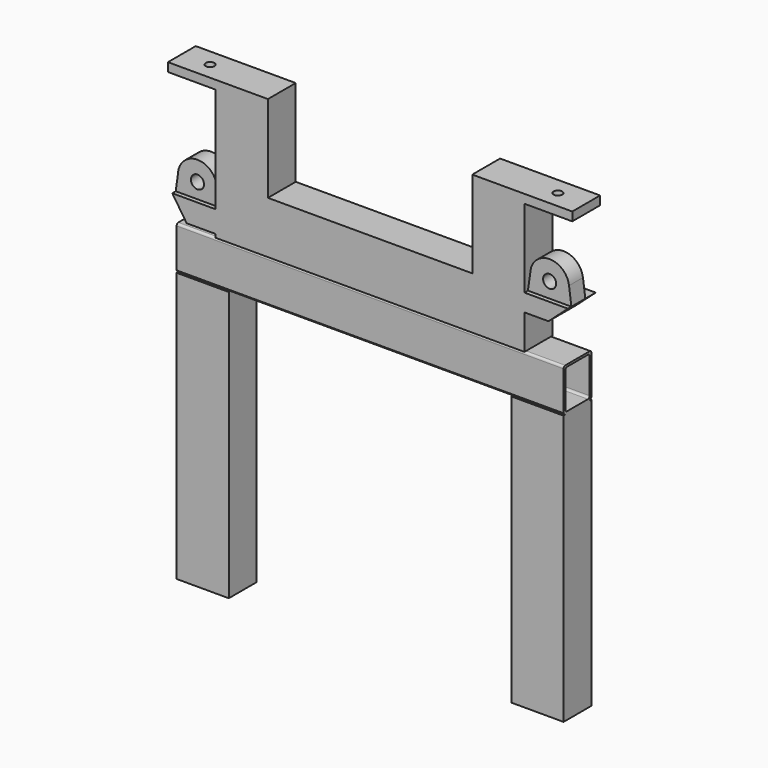
from build123d import *

# Parameters (mm, degrees)
F0_W      = 470
F0_H      = 400
F0_W_2    = 60
F0_H_2    = 20
F1_DEPTH  = 80
F2_W      = 989.0920937061
F2_H      = 720
F3_DEPTH  = 80
F4_R      = 10
F5_DEPTH  = 25
F7_START  = -10
F6_R      = 15
F7_DEPTH  = 40
F10_DEPTH = 80
F12_DEPTH = 890
F13_R     = 5
F15_DEPTH = 890
F17_DEPTH = 890


with BuildPart() as f1:
    # F0 (on Front) → F1 (new body)
    with BuildSketch(Plane.XZ):
        Polygon((-235, 0), (-355, 0), (-465, 0), (-465, -20), (-355, -20), (-355, -262.1796250343), (-455, -262.1796250343), (-421.8337520964, -312.1796250343), (-355, -312.1796250343), (-355, -1020), (-355, -1040), (-235, -1040), (-235, -840), (235, -840), (235, -1040), (355, -1040), (355, -1020), (355, -240), (410.27864045, -240), (455, -200), (355, -200), (355, -20), (465, -20), (465, 0), (355, 0), (235, 0), (235, -200), (-235, -200), align=None)
        with Locations((0, -520)):
            Rectangle(F0_W, F0_H, mode=Mode.SUBTRACT)
        with Locations((-385, -1030)):
            Rectangle(F0_W_2, F0_H_2)
        with Locations((385, -1030)):
            Rectangle(F0_W_2, F0_H_2)
    extrude(amount=F1_DEPTH)

    # F2 (on face) → F3 (cut)
    with BuildSketch(Plane.XZ.offset(80)):
        with Locations((42.8487956524, -680)):
            Rectangle(F2_W, F2_H)
    extrude(amount=-F3_DEPTH, mode=Mode.SUBTRACT)

    # F4 (on face) → F5 (cut)
    with BuildSketch(Plane.XY):
        with Locations((-400, -40)):
            Circle(F4_R)
        with Locations((400, -40)):
            Circle(F4_R)
    extrude(amount=-F5_DEPTH, mode=Mode.SUBTRACT)

    # F6 (on face) → F7 (join)
    with BuildSketch(Plane.XZ.offset(80).offset(F7_START)):
        with BuildLine():
            Line((-355, -262.1796250343), (-360.3855265494, -221.3018058192))
            ThreePointArc((-360.3855265494, -221.3018058192), (-407.0948116692, -182.2284096551), (-449.9677594515, -225.4765073318))
            Line((-449.9677594515, -225.4765073318), (-455, -262.1796250343))
            Line((-455, -262.1796250343), (-355, -262.1796250343))
        make_face()
        with Locations((-405, -227.1796250343)):
            Circle(F6_R, mode=Mode.SUBTRACT)
        with BuildLine():
            Line((355, -200), (455, -200))
            Line((455, -200), (449.6144734506, -159.1221807849))
            ThreePointArc((449.6144734506, -159.1221807849), (408.6794577223, -120.1506790367), (361.9400684353, -151.9293346135))
            Line((361.9400684353, -151.9293346135), (355, -200))
        make_face()
        with Locations((405, -165)):
            Circle(F6_R, mode=Mode.SUBTRACT)
    extrude(amount=-F7_DEPTH)

    # F9 (on face) → F10 (join)
    with BuildSketch(Plane.XZ.offset(80)):
        Polygon((445, -320), (-445, -320), (-445, -420), (-445, -1040), (-325, -1040), (-325, -420), (325, -420), (325, -1040), (445, -1040), (445, -420), align=None)
    extrude(amount=-F10_DEPTH)

    # F11 (on face) → F12 (cut)
    with BuildSketch(Plane(origin=(-445, 0, 0), x_dir=(0, -1, 0), z_dir=(-1, 0, 0))):
        with BuildLine():
            Line((70, -325), (10, -325))
            ThreePointArc((10, -325), (6.4644660941, -326.4644660941), (5, -330))
            Line((5, -330), (5, -410))
            ThreePointArc((5, -410), (6.4644660941, -413.5355339059), (10, -415))
            Line((10, -415), (70, -415))
            ThreePointArc((70, -415), (73.5355339059, -413.5355339059), (75, -410))
            Line((75, -410), (75, -330))
            ThreePointArc((75, -330), (73.5355339059, -326.4644660941), (70, -325))
        make_face()
    extrude(amount=-F12_DEPTH, mode=Mode.SUBTRACT)

    # F13
    f13_edges = [f1.edges().sort_by_distance(p)[0] for p in [
        (-400, -80, -320),
        (-400, 0, -320),
        (0, -80, -420),
        (0, 0, -420),
        (400, -80, -320),
        (400, 0, -320),
    ]]
    fillet(f13_edges, radius=F13_R)

    # F14 (on face) → F15 (cut)
    with BuildSketch(Plane(origin=(-445, 0, 0), x_dir=(0, -1, 0), z_dir=(-1, 0, 0))):
        Polygon((75, -420), (80, -420), (80, -415), align=None)
        Polygon((0, -415), (0, -420), (5, -420), align=None)
    extrude(amount=-F15_DEPTH, mode=Mode.SUBTRACT)

    # F16 (on face) → F17 (cut)
    with BuildSketch(Plane(origin=(-445, 0, 0), x_dir=(0, -1, 0), z_dir=(-1, 0, 0))):
        with BuildLine():
            ThreePointArc((75, -320), (78.5355339059, -321.4644660941), (80, -325))
            Line((80, -325), (80, -320))
            Line((80, -320), (75, -320))
        make_face()
        with BuildLine():
            ThreePointArc((0, -325), (1.4644660941, -321.4644660941), (5, -320))
            Line((5, -320), (0, -320))
            Line((0, -320), (0, -325))
        make_face()
    extrude(amount=-F17_DEPTH, mode=Mode.SUBTRACT)


solid = f1.part
